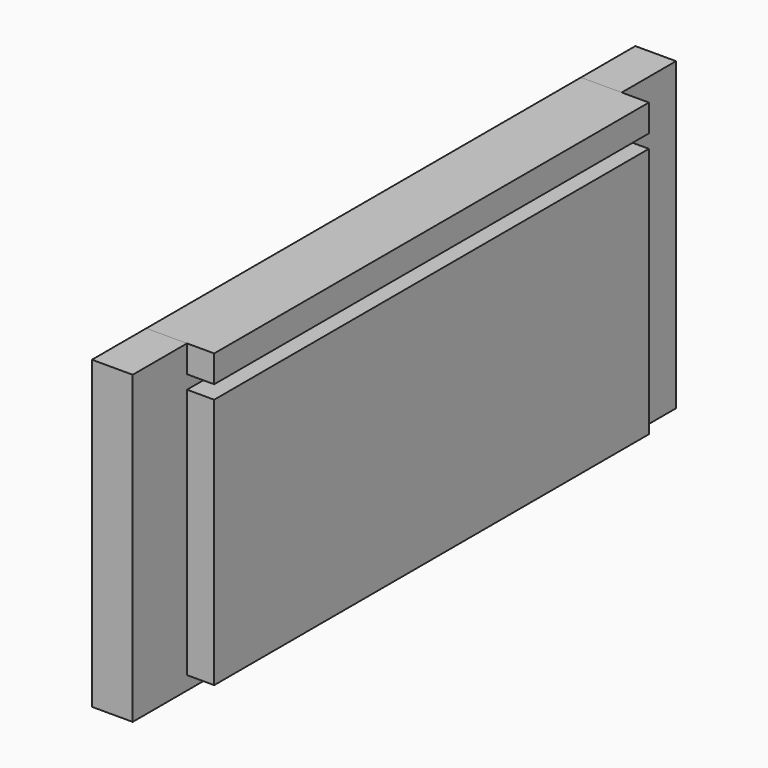
from build123d import *

# Parameters (mm, degrees)
F0_W     = 160
F0_H     = 8
F0_H_2   = 74
F1_DEPTH = 20
F2_DEPTH = 12


with BuildPart() as f1:
    # F0 (on Right) → F1 (new body)
    with BuildSketch(Plane.YZ):
        with Locations((32.732496, 38.279108)):
            Rectangle(F0_W, F0_H)
        with Locations((32.732496, -6.720892)):
            Rectangle(F0_W, F0_H_2)
    extrude(amount=F1_DEPTH)


with BuildPart() as f2:
    # F0 (on Right) → F2 (new body)
    with BuildSketch(Plane.YZ):
        Polygon((132.732496, -47.720892), (132.732496, 42.279108), (112.732496, 42.279108), (112.732496, 34.279108), (-47.267504, 34.279108), (-47.267504, 42.279108), (-67.267504, 42.279108), (-67.267504, -47.720892), align=None)
        with Locations((32.732496, -6.720892)):
            Rectangle(F0_W, F0_H_2, mode=Mode.SUBTRACT)
    extrude(amount=F2_DEPTH)


solid = Compound([f1.part, f2.part])
